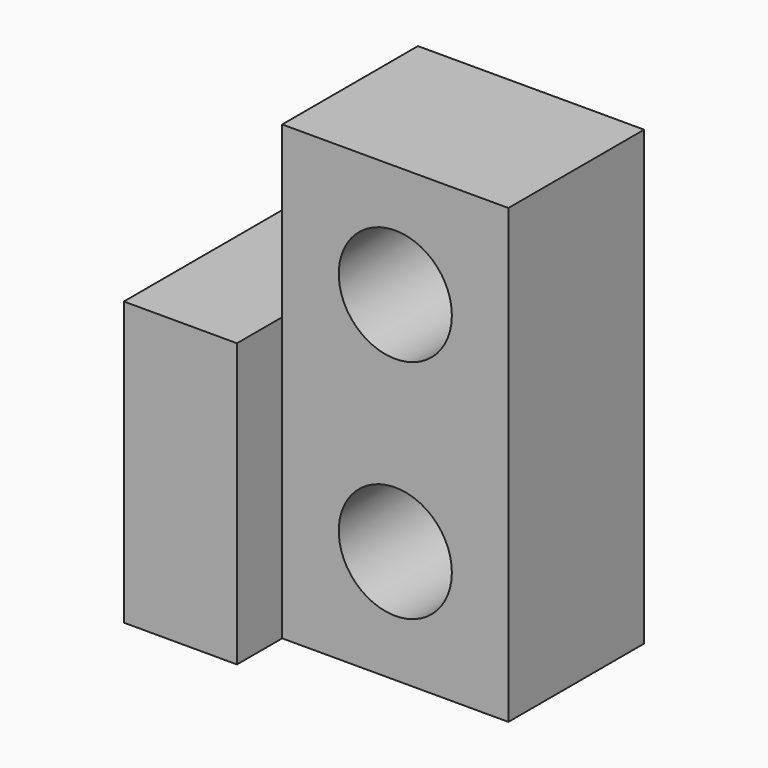
from build123d import *

# Parameters (mm, degrees)
F0_W     = 508
F0_H     = 1016
F0_R     = 127
F1_DEPTH = 381
F2_W     = 127
F2_H     = 635
F2_W_2   = 381
F3_DEPTH = 254


with BuildPart() as f1:
    # F0 (on Front) → F1 (new body)
    with BuildSketch(Plane.XZ):
        with Locations((254, 508)):
            Rectangle(F0_W, F0_H)
        with Locations((254, 254)):
            Circle(F0_R, mode=Mode.SUBTRACT)
        with Locations((254, 762)):
            Circle(F0_R, mode=Mode.SUBTRACT)
    extrude(amount=-F1_DEPTH)

    # F2 (on face) → F3 (join)
    with BuildSketch(Plane(origin=(0, 0, 0), x_dir=(0, -1, 0), z_dir=(-1, 0, 0))):
        with Locations((63.5, 317.5)):
            Rectangle(F2_W, F2_H)
        with Locations((-190.5, 317.5)):
            Rectangle(F2_W_2, F2_H)
    extrude(amount=F3_DEPTH)


solid = f1.part
